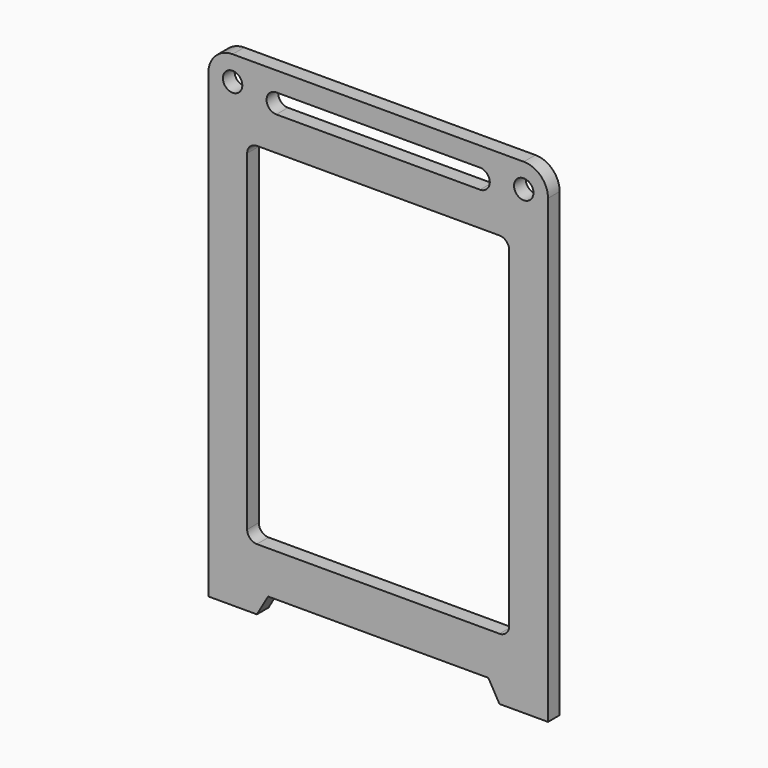
from build123d import *

# Parameters (mm, degrees)
F0_R     = 10
F1_DEPTH = 15
F3_DEPTH = 15.001


with BuildPart() as f1:
    # F0 (on Front) → F1 (new body)
    with BuildSketch(Plane.XZ):
        with BuildLine():
            Line((150, 250), (-150, 250))
            ThreePointArc((-150, 250), (-167.67767, 242.67767), (-175, 225))
            Line((-175, 225), (-175, -250))
            Line((-175, -250), (-125, -250))
            Line((-125, -250), (-113.452995, -230))
            Line((-113.452995, -230), (0, -230))
            Line((0, -230), (113.452995, -230))
            Line((113.452995, -230), (125, -250))
            Line((125, -250), (175, -250))
            Line((175, -250), (175, 225))
            ThreePointArc((175, 225), (167.67767, 242.67767), (150, 250))
        make_face()
        with Locations((-150, 225)):
            Circle(F0_R, mode=Mode.SUBTRACT)
        with BuildLine():
            Line((105, 210), (-105, 210))
            ThreePointArc((-105, 210), (-115, 220), (-105, 230))
            Line((-105, 230), (105, 230))
            ThreePointArc((105, 230), (115, 220), (105, 210))
        make_face(mode=Mode.SUBTRACT)
        with Locations((150, 225)):
            Circle(F0_R, mode=Mode.SUBTRACT)
    extrude(amount=F1_DEPTH)

    # F2 (on face) → F3 (cut, through all)
    with BuildSketch(Plane.XZ.offset(15)):
        with BuildLine():
            ThreePointArc((135, 165), (132.071068, 172.071068), (125, 175))
            Line((125, 175), (-125, 175))
            ThreePointArc((-125, 175), (-132.071068, 172.071068), (-135, 165))
            Line((-135, 165), (-135, -176.264953))
            ThreePointArc((-135, -176.264953), (-132.071068, -183.336021), (-125, -186.264953))
            Line((-125, -186.264953), (125, -186.264953))
            ThreePointArc((125, -186.264953), (132.071068, -183.336021), (135, -176.264953))
            Line((135, -176.264953), (135, 165))
        make_face()
    extrude(amount=-F3_DEPTH, mode=Mode.SUBTRACT)


solid = f1.part
